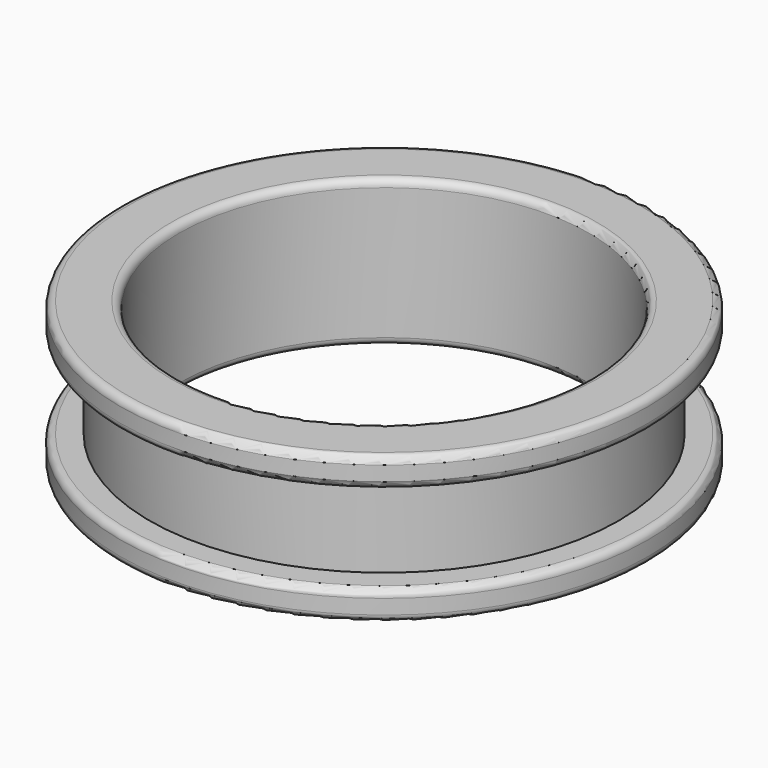
from build123d import *

# Parameters (mm, degrees)
F0_R     = 16
F0_R_2   = 14
F1_DEPTH = 10
F2_R     = 18
F2_R_2   = 16
F3_DEPTH = 2
F4_R     = 18
F4_R_2   = 14
F5_DEPTH = 2
F6_R     = 0.5


with BuildPart() as f1:
    # F0 (on Top) → F1 (new body)
    with BuildSketch(Plane.XY):
        Circle(F0_R)
        Circle(F0_R_2, mode=Mode.SUBTRACT)
    extrude(amount=F1_DEPTH)

    # F2 (on face) → F3 (join)
    with BuildSketch(Plane(origin=(0, 0, 0), x_dir=(1, 0, 0), z_dir=(0, 0, -1))):
        Circle(F2_R)
        Circle(F2_R_2, mode=Mode.SUBTRACT)
    extrude(amount=-F3_DEPTH)

    # F4 (on face) → F5 (join)
    with BuildSketch(Plane.XY.offset(10)):
        Circle(F4_R)
        Circle(F4_R_2, mode=Mode.SUBTRACT)
    extrude(amount=-F5_DEPTH)

    # F6
    f6_edges = [f1.edges().sort_by_distance(p)[0] for p in [
        (-18, 0, 10),
        (-18, 0, 0),
        (-18, 0, 8),
        (-18, 0, 2),
        (-14, 0, 0),
        (-14, 0, 10),
    ]]
    fillet(f6_edges, radius=F6_R)


solid = f1.part
